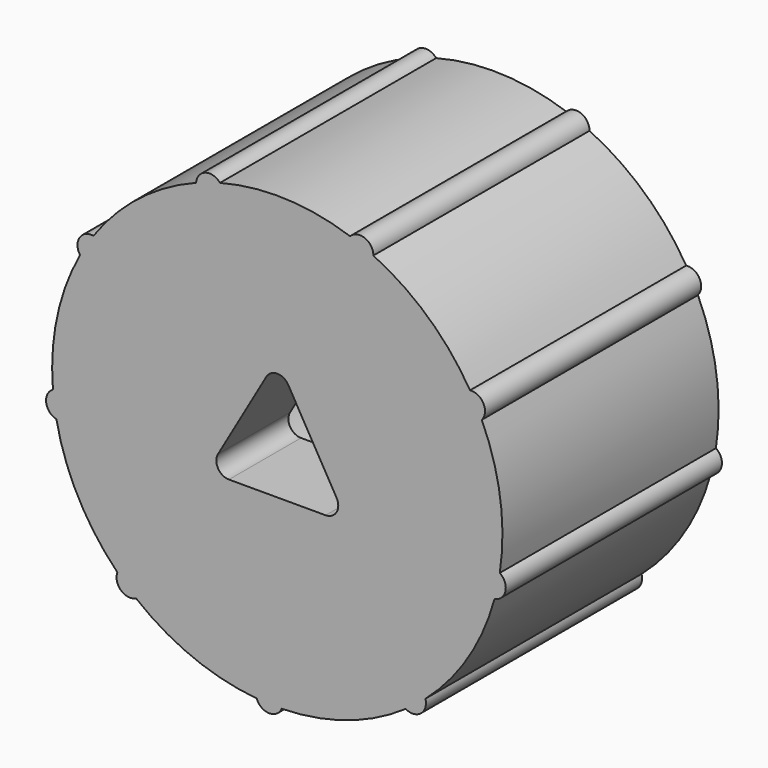
from build123d import *

# Parameters (mm, degrees)
F0_R      = 12.5
F1_DEPTH  = 15
F2_R      = 10.75
F3_DEPTH  = 5
F4_R      = 7
F5_DEPTH  = 5
F6_R      = 0.7
F8_DEPTH  = 2
F9_R      = 0.75
F10_DEPTH = 15


with BuildPart() as f1:
    # F0 (on Front) → F1 (new body)
    with BuildSketch(Plane.XZ):
        Circle(F0_R)
        Polygon((-3.897114317, -2.25), (0, 4.5), (3.897114317, -2.25), align=None, mode=Mode.SUBTRACT)
    extrude(amount=F1_DEPTH)

    # F2 (on face) → F3 (cut)
    with BuildSketch(Plane(origin=(0, 0, 0), x_dir=(-1, 0, 0), z_dir=(0, 1, 0))):
        Circle(F2_R)
        Polygon((-3.897114317, -2.25), (0, 4.5), (3.897114317, -2.25), align=None, mode=Mode.SUBTRACT)
    extrude(amount=-F3_DEPTH, mode=Mode.SUBTRACT)

    # F4 (on face) → F5 (cut)
    with BuildSketch(Plane(origin=(0, -5, 0), x_dir=(-1, 0, 0), z_dir=(0, 1, 0))):
        Circle(F4_R)
    extrude(amount=-F5_DEPTH, mode=Mode.SUBTRACT)

    # F6
    f6_edges = [f1.edges().sort_by_distance(p)[0] for p in [
        (0, -12.5, 4.5),
        (-3.897114, -12.5, -2.25),
        (3.897114, -12.5, -2.25),
    ]]
    fillet(f6_edges, radius=F6_R)

    # F7 (on face) → F8 (join)
    with BuildSketch(Plane(origin=(0, 0, 0), x_dir=(-1, 0, 0), z_dir=(0, 1, 0))):
        with BuildLine():
            ThreePointArc((-10.7057848837, -0.973996932), (-10.0451118038, -0.6736153434), (-9.775, 0))
            ThreePointArc((-9.775, 0), (-10.0451118038, 0.6736153434), (-10.7057848837, 0.973996932))
            ThreePointArc((-10.7057848837, 0.973996932), (-10.75, 0), (-10.7057848837, -0.973996932))
        make_face()
        with BuildLine():
            ThreePointArc((10.75, 0), (10.738940532, 0.4875), (10.7057848837, 0.973996932))
            ThreePointArc((10.7057848837, 0.973996932), (9.775, 0), (10.7057848837, -0.973996932))
            ThreePointArc((10.7057848837, -0.973996932), (10.738940532, -0.4875), (10.75, 0))
        make_face()
    extrude(amount=-F8_DEPTH)

    # F9 (on Front) → F10 (join)
    with BuildSketch(Plane.XZ):
        with Locations((-10.3421816602, 6.477789022)):
            Circle(F9_R)
        with BuildLine():
            ThreePointArc((0.3111609767, -12.1954865593), (0.2288544945, -11.8538941615), (0, -11.5872758133))
            Line((0, -11.5872758133), (0, -12.8036973054))
            ThreePointArc((0, -12.8036973054), (0.2288544945, -12.5370789572), (0.3111609767, -12.1954865593))
        make_face()
        with BuildLine():
            Line((0, -12.8036973054), (0, -11.5872758133))
            ThreePointArc((0, -11.5872758133), (-1.1888390233, -12.1954865593), (0, -12.8036973054))
        make_face()
        with Locations((-12.0864133121, -1.6855519443)):
            Circle(F9_R)
        with Locations((-8.1752778497, -9.0602044231)):
            Circle(F9_R)
        with Locations((7.5029374592, -9.6243649967)):
            Circle(F9_R)
        with Locations((11.9340061187, -2.5498960893)):
            Circle(F9_R)
        with Locations((10.7810206836, 5.7176975373)):
            Circle(F9_R)
        with Locations((4.5834758529, 11.309916941)):
            Circle(F9_R)
        with Locations((-3.758728269, 11.6101005123)):
            Circle(F9_R)
    extrude(amount=F10_DEPTH)


solid = f1.part
